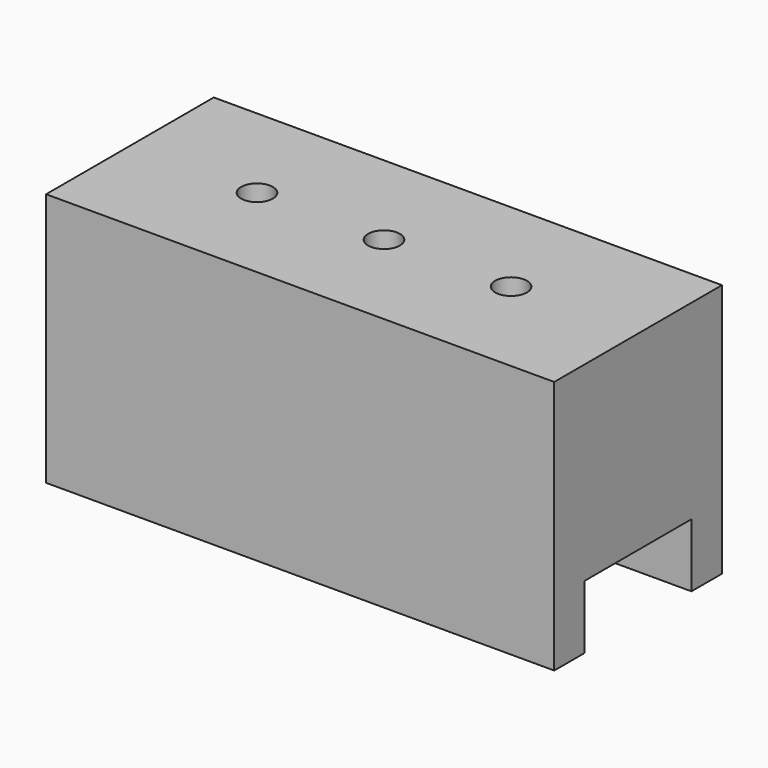
from build123d import *

# Parameters (mm, degrees)
F0_W     = 40
F0_H     = 3
F0_H_2   = 10.5
F1_DEPTH = 20
F2_DEPTH = 5
F3_R     = 1.25
F4_DEPTH = 20.001
F5_DEPTH = 20.001


with BuildPart() as f1:
    # F0 (on Top) → F1 (new body)
    with BuildSketch(Plane.XY):
        with Locations((0, 6.75)):
            Rectangle(F0_W, F0_H)
        Rectangle(F0_W, F0_H_2)
        with Locations((0, -6.75)):
            Rectangle(F0_W, F0_H)
    extrude(amount=F1_DEPTH)

    # F0 (on Top) → F2 (cut)
    with BuildSketch(Plane.XY):
        Rectangle(F0_W, F0_H_2)
    extrude(amount=F2_DEPTH, mode=Mode.SUBTRACT)

    # F3 (on face) → F4 (cut, through all)
    with BuildSketch(Plane.XY.offset(20)):
        Circle(F3_R)
    extrude(amount=-F4_DEPTH, mode=Mode.SUBTRACT)

    # F3 (on face) → F5 (cut, through all)
    with BuildSketch(Plane.XY.offset(20)):
        with Locations((10, 0)):
            Circle(F3_R)
        Circle(F3_R)
        with Locations((-10, 0)):
            Circle(F3_R)
    extrude(amount=-F5_DEPTH, mode=Mode.SUBTRACT)


solid = f1.part
